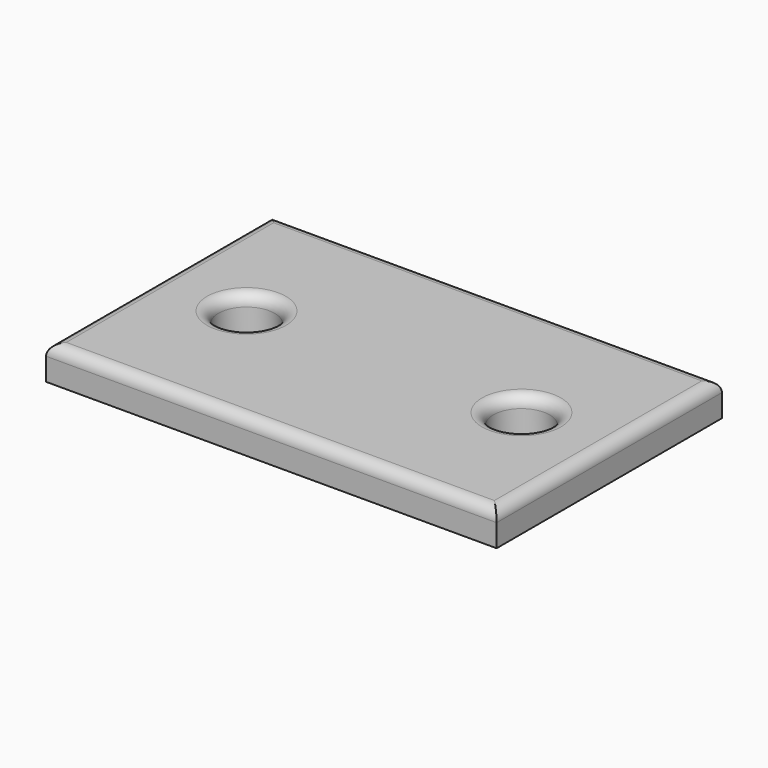
from build123d import *

# Parameters (mm, degrees)
F0_W     = 40
F0_H     = 25
F1_DEPTH = 3
F4_D     = 5
F5_R     = 1


with BuildPart() as f1:
    # F0 (on Top) → F1 (new body)
    with BuildSketch(Plane.XY):
        with Locations((0, 32.112984)):
            Rectangle(F0_W, F0_H)
    extrude(amount=F1_DEPTH)

    # F4 (through all)
    with Locations(Plane.XY.offset(5)):
        with Locations((-12.205, 32.112984), (12.205, 32.112984)):
            Hole(F4_D / 2)

    # F5
    f5_edges = [f1.edges().sort_by_distance(p)[0] for p in [
        (0, 44.612984, 3),
        (20, 32.112984, 3),
        (-20, 32.112984, 3),
        (0, 19.612984, 3),
        (-14.705, 32.112984, 3),
        (9.705, 32.112984, 3),
    ]]
    fillet(f5_edges, radius=F5_R)


solid = f1.part
